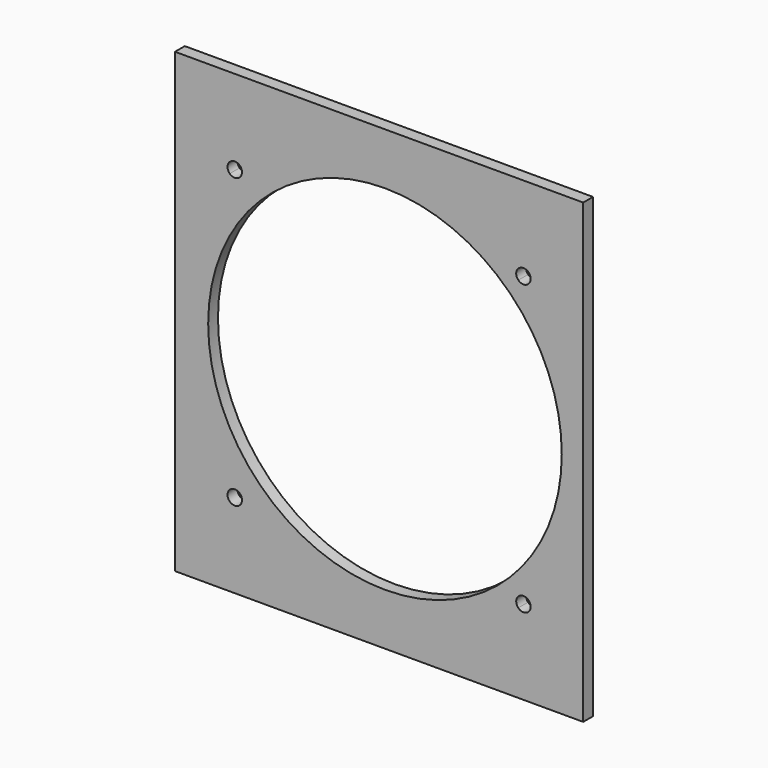
from build123d import *

# Parameters (mm, degrees)
F0_W     = 127
F0_H     = 142.24
F1_DEPTH = 3.81
F2_R     = 55
F3_DEPTH = 3.81
F5_DEPTH = 3.81


with BuildPart() as f1:
    # F0 (on Front) → F1 (new body)
    with BuildSketch(Plane.XZ):
        Rectangle(F0_W, F0_H)
    extrude(amount=F1_DEPTH)

    # F2 (on face) → F3 (cut, through all)
    with BuildSketch(Plane.XZ.offset(3.81)):
        with Locations((1.824845, 0)):
            Circle(F2_R)
    extrude(amount=-F3_DEPTH, mode=Mode.SUBTRACT)

    # F4 (on face) → F5 (cut, through all)
    with BuildSketch(Plane.XZ.offset(3.81)):
        with BuildLine():
            ThreePointArc((-46.463834, 43.282353), (-44.881349, 42.651369), (-43.31029, 43.31029))
            Line((-43.31029, 43.31029), (-44.901281, 44.901281))
            ThreePointArc((-44.901281, 44.901281), (-45.689728, 44.098738), (-46.463834, 43.282353))
        make_face()
        with BuildLine():
            ThreePointArc((-44.901281, 44.901281), (-44.098738, 45.689728), (-43.282353, 46.463834))
            ThreePointArc((-43.282353, 46.463834), (-46.492271, 46.492271), (-46.463834, 43.282353))
            ThreePointArc((-46.463834, 43.282353), (-45.689728, 44.098738), (-44.901281, 44.901281))
        make_face()
        with BuildLine():
            ThreePointArc((-42.651281, 44.901281), (-42.815006, 45.74387), (-43.282353, 46.463834))
            ThreePointArc((-43.282353, 46.463834), (-44.098738, 45.689728), (-44.901281, 44.901281))
            Line((-44.901281, 44.901281), (-43.31029, 43.31029))
            ThreePointArc((-43.31029, 43.31029), (-42.822552, 44.040243), (-42.651281, 44.901281))
        make_face()
        with BuildLine():
            ThreePointArc((44.901281, 44.901281), (45.689728, 44.098738), (46.463834, 43.282353))
            ThreePointArc((46.463834, 43.282353), (46.9723, 44.021862), (47.151281, 44.901281))
            ThreePointArc((47.151281, 44.901281), (45.74387, 46.987556), (43.282353, 46.463834))
            ThreePointArc((43.282353, 46.463834), (44.098738, 45.689728), (44.901281, 44.901281))
        make_face()
        with BuildLine():
            ThreePointArc((43.31029, 43.31029), (44.881349, 42.651369), (46.463834, 43.282353))
            ThreePointArc((46.463834, 43.282353), (45.689728, 44.098738), (44.901281, 44.901281))
            Line((44.901281, 44.901281), (43.31029, 43.31029))
        make_face()
        with BuildLine():
            Line((43.31029, 43.31029), (44.901281, 44.901281))
            ThreePointArc((44.901281, 44.901281), (44.098738, 45.689728), (43.282353, 46.463834))
            ThreePointArc((43.282353, 46.463834), (42.651369, 44.881349), (43.31029, 43.31029))
        make_face()
        with BuildLine():
            ThreePointArc((44.901281, -44.901281), (45.689728, -44.098738), (46.463834, -43.282353))
            ThreePointArc((46.463834, -43.282353), (44.881349, -42.651369), (43.31029, -43.31029))
            Line((43.31029, -43.31029), (44.901281, -44.901281))
        make_face()
        with BuildLine():
            ThreePointArc((43.282353, -46.463834), (44.098738, -45.689728), (44.901281, -44.901281))
            Line((44.901281, -44.901281), (43.31029, -43.31029))
            ThreePointArc((43.31029, -43.31029), (42.651369, -44.881349), (43.282353, -46.463834))
        make_face()
        with BuildLine():
            ThreePointArc((47.151281, -44.901281), (46.9723, -44.021862), (46.463834, -43.282353))
            ThreePointArc((46.463834, -43.282353), (45.689728, -44.098738), (44.901281, -44.901281))
            ThreePointArc((44.901281, -44.901281), (44.098738, -45.689728), (43.282353, -46.463834))
            ThreePointArc((43.282353, -46.463834), (45.74387, -46.987556), (47.151281, -44.901281))
        make_face()
        with BuildLine():
            ThreePointArc((-46.463834, -43.282353), (-46.492271, -46.492271), (-43.282353, -46.463834))
            ThreePointArc((-43.282353, -46.463834), (-44.098738, -45.689728), (-44.901281, -44.901281))
            ThreePointArc((-44.901281, -44.901281), (-45.689728, -44.098738), (-46.463834, -43.282353))
        make_face()
        with BuildLine():
            Line((-44.901281, -44.901281), (-43.31029, -43.31029))
            ThreePointArc((-43.31029, -43.31029), (-44.881349, -42.651369), (-46.463834, -43.282353))
            ThreePointArc((-46.463834, -43.282353), (-45.689728, -44.098738), (-44.901281, -44.901281))
        make_face()
        with BuildLine():
            ThreePointArc((-42.651281, -44.901281), (-42.822552, -44.040243), (-43.31029, -43.31029))
            Line((-43.31029, -43.31029), (-44.901281, -44.901281))
            ThreePointArc((-44.901281, -44.901281), (-44.098738, -45.689728), (-43.282353, -46.463834))
            ThreePointArc((-43.282353, -46.463834), (-42.815006, -45.74387), (-42.651281, -44.901281))
        make_face()
    extrude(amount=-F5_DEPTH, mode=Mode.SUBTRACT)


solid = f1.part
